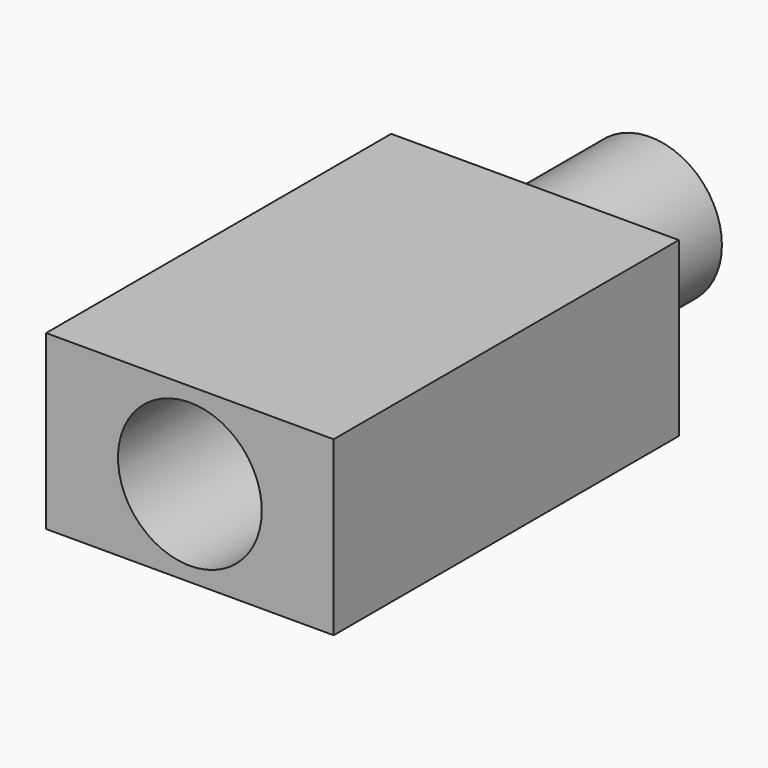
from build123d import *

# Parameters (mm, degrees)
F0_R     = 3.175
F1_DEPTH = 6.35
F2_W     = 12.7
F2_H     = 7.62
F2_R     = 3.175
F3_DEPTH = 19.05


with BuildPart() as f1:
    # F0 (on Front) → F1 (new body)
    with BuildSketch(Plane.XZ):
        with Locations((-9.817178, 15.216625)):
            Circle(F0_R)
    extrude(amount=F1_DEPTH)


with BuildPart() as f3:
    # F2 (on face) → F3 (new body)
    with BuildSketch(Plane.XZ.offset(6.35)):
        with Locations((-9.817178, 15.216625)):
            Rectangle(F2_W, F2_H)
        with Locations((-9.817178, 15.216625)):
            Circle(F2_R, mode=Mode.SUBTRACT)
    extrude(amount=F3_DEPTH)


solid = Compound([f1.part, f3.part])
